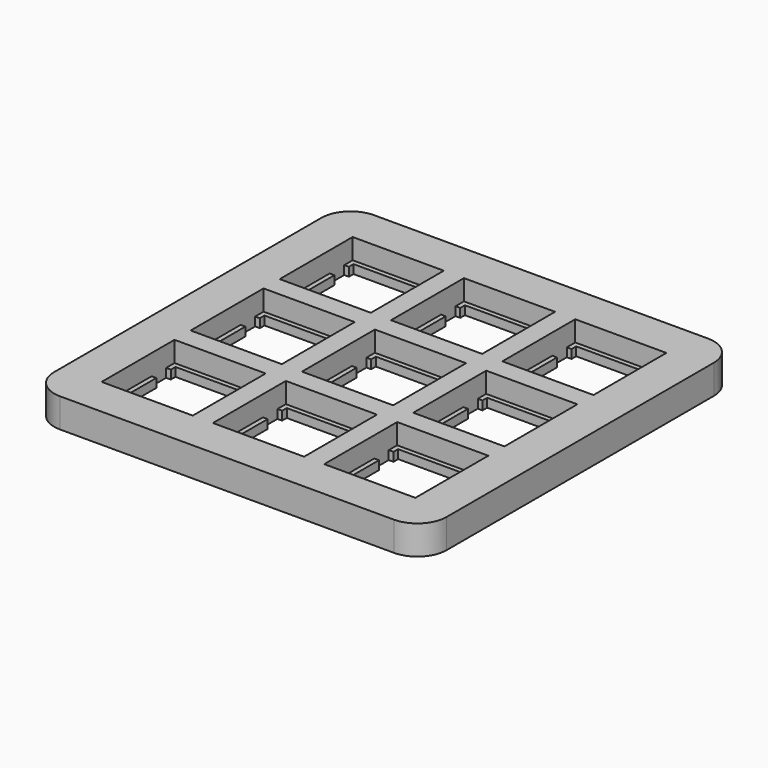
from build123d import *

# Parameters (mm, degrees)
F0_W     = 67.150293
F0_H     = 67.150481
F0_W_2   = 0.80067
F0_H_2   = 5.8004
F0_W_3   = 0.8006
F0_W_4   = 0.8007
F0_W_5   = 0.8008
F0_H_3   = 5.8002
F0_H_4   = 5.8001
F1_DEPTH = 1.5
F2_DEPTH = 5
F3_R     = 5


with BuildPart() as f1:
    # F0 (on Top) → F1 (new body)
    with BuildSketch(Plane.XY):
        with Locations((1e-06, 0)):
            Rectangle(F0_W, F0_H)
        Polygon((-11.249553, -21.950059), (-11.249553, -25.049329), (-11.249553, -26.849741), (-26.850333, -26.849741), (-26.850333, -25.049329), (-26.850333, -21.950059), (-26.850333, -16.149959), (-26.850333, -13.049359), (-26.850333, -11.250141), (-11.249553, -11.250141), (-11.249553, -13.049359), (-11.249553, -16.149959), align=None, mode=Mode.SUBTRACT)
        Polygon((-11.249553, -2.900059), (-11.249553, -5.999359), (-11.249553, -7.799741), (-26.850333, -7.799741), (-26.850333, -5.999359), (-26.850333, -2.900059), (-26.850333, 2.900141), (-26.850333, 6.000741), (-26.850333, 7.799741), (-11.249553, 7.799741), (-11.249553, 6.000741), (-11.249553, 2.900141), align=None, mode=Mode.SUBTRACT)
        Polygon((7.800547, -21.950059), (7.800547, -25.049329), (7.800547, -26.849741), (-7.800353, -26.849741), (-7.800353, -25.049329), (-7.800353, -21.950059), (-7.800353, -16.149959), (-7.800353, -13.049359), (-7.800353, -11.250141), (7.800547, -11.250141), (7.800547, -13.049359), (7.800547, -16.149959), align=None, mode=Mode.SUBTRACT)
        Polygon((26.850547, -21.950059), (26.850547, -25.049329), (26.850547, -26.849741), (11.249647, -26.849741), (11.249647, -25.049329), (11.249647, -21.950059), (11.249647, -16.149959), (11.249647, -13.049359), (11.249647, -11.250141), (26.850547, -11.250141), (26.850547, -13.049359), (26.850547, -16.149959), align=None, mode=Mode.SUBTRACT)
        Polygon((7.800547, -2.900059), (7.800547, -5.999359), (7.800547, -7.799741), (-7.800353, -7.799741), (-7.800353, -5.999359), (-7.800353, -2.900059), (-7.800353, 2.900141), (-7.800353, 6.000741), (-7.800353, 7.799741), (7.800547, 7.799741), (7.800547, 6.000741), (7.800547, 2.900141), align=None, mode=Mode.SUBTRACT)
        Polygon((26.850547, -2.900059), (26.850547, -5.999359), (26.850547, -7.799741), (11.249647, -7.799741), (11.249647, -5.999359), (11.249647, -2.900059), (11.249647, 2.900141), (11.249647, 6.000741), (11.249647, 7.799741), (26.850547, 7.799741), (26.850547, 6.000741), (26.850547, 2.900141), align=None, mode=Mode.SUBTRACT)
        Polygon((-11.249553, 16.149741), (-11.249553, 13.050641), (-11.249553, 11.250141), (-26.850333, 11.250141), (-26.850333, 13.050641), (-26.850333, 16.149741), (-26.850333, 21.950141), (-26.850333, 25.050741), (-26.850333, 26.849741), (-11.249553, 26.849741), (-11.249553, 25.050741), (-11.249553, 21.950141), align=None, mode=Mode.SUBTRACT)
        Polygon((7.800547, 16.149741), (7.800547, 13.050641), (7.800547, 11.250141), (-7.800353, 11.250141), (-7.800353, 13.050641), (-7.800353, 16.149741), (-7.800353, 21.950141), (-7.800353, 25.050741), (-7.800353, 26.849741), (7.800547, 26.849741), (7.800547, 25.050741), (7.800547, 21.950141), align=None, mode=Mode.SUBTRACT)
        Polygon((26.850547, 16.149741), (26.850547, 13.050641), (26.850547, 11.250141), (11.249647, 11.250141), (11.249647, 13.050641), (11.249647, 16.149741), (11.249647, 21.950141), (11.249647, 25.050741), (11.249647, 26.849741), (26.850547, 26.849741), (26.850547, 25.050741), (26.850547, 21.950141), align=None, mode=Mode.SUBTRACT)
        with Locations((-26.449998, 19.049941)):
            Rectangle(F0_W_2, F0_H_2)
        Polygon((-12.050153, 25.050741), (-11.249553, 25.050741), (-11.249553, 26.849741), (-26.850333, 26.849741), (-26.850333, 25.050741), (-26.049663, 25.050741), (-26.049663, 26.049741), (-12.050153, 26.049741), align=None)
        with Locations((-11.649853, 19.049941)):
            Rectangle(F0_W_3, F0_H_2)
        Polygon((-11.249553, 13.050641), (-12.050153, 13.050641), (-12.050153, 12.050141), (-26.049663, 12.050141), (-26.049663, 13.050641), (-26.850333, 13.050641), (-26.850333, 11.250141), (-11.249553, 11.250141), align=None)
        Polygon((7.800547, 13.050641), (6.999747, 13.050641), (6.999747, 12.050141), (-6.999653, 12.050141), (-6.999653, 13.050641), (-7.800353, 13.050641), (-7.800353, 11.250141), (7.800547, 11.250141), align=None)
        with Locations((-7.400003, 19.049941)):
            Rectangle(F0_W_4, F0_H_2)
        Polygon((6.999747, 25.050741), (7.800547, 25.050741), (7.800547, 26.849741), (-7.800353, 26.849741), (-7.800353, 25.050741), (-6.999653, 25.050741), (-6.999653, 26.049741), (6.999747, 26.049741), align=None)
        with Locations((7.400147, 19.049941)):
            Rectangle(F0_W_5, F0_H_2)
        with Locations((11.650047, 19.049941)):
            Rectangle(F0_W_5, F0_H_2)
        Polygon((26.049747, 25.050741), (26.850547, 25.050741), (26.850547, 26.849741), (11.249647, 26.849741), (11.249647, 25.050741), (12.050447, 25.050741), (12.050447, 26.049741), (26.049747, 26.049741), align=None)
        with Locations((26.450147, 19.049941)):
            Rectangle(F0_W_5, F0_H_2)
        Polygon((26.850547, 13.050641), (26.049747, 13.050641), (26.049747, 12.050141), (12.050447, 12.050141), (12.050447, 13.050641), (11.249647, 13.050641), (11.249647, 11.250141), (26.850547, 11.250141), align=None)
        Polygon((26.049747, 6.000741), (26.850547, 6.000741), (26.850547, 7.799741), (11.249647, 7.799741), (11.249647, 6.000741), (12.050447, 6.000741), (12.050447, 6.999741), (26.049747, 6.999741), align=None)
        with Locations((11.650047, 4.1e-05)):
            Rectangle(F0_W_5, F0_H_3)
        with Locations((26.450147, 4.1e-05)):
            Rectangle(F0_W_5, F0_H_3)
        Polygon((26.850547, -5.999359), (26.049747, -5.999359), (26.049747, -6.999759), (12.050447, -6.999759), (12.050447, -5.999359), (11.249647, -5.999359), (11.249647, -7.799741), (26.850547, -7.799741), align=None)
        Polygon((7.800547, -5.999359), (6.999747, -5.999359), (6.999747, -6.999759), (-6.999653, -6.999759), (-6.999653, -5.999359), (-7.800353, -5.999359), (-7.800353, -7.799741), (7.800547, -7.799741), align=None)
        with Locations((7.400147, 4.1e-05)):
            Rectangle(F0_W_5, F0_H_3)
        Polygon((6.999747, 6.000741), (7.800547, 6.000741), (7.800547, 7.799741), (-7.800353, 7.799741), (-7.800353, 6.000741), (-6.999653, 6.000741), (-6.999653, 6.999741), (6.999747, 6.999741), align=None)
        with Locations((-7.400003, 4.1e-05)):
            Rectangle(F0_W_4, F0_H_3)
        with Locations((-11.649853, 4.1e-05)):
            Rectangle(F0_W_3, F0_H_3)
        Polygon((-12.050153, 6.000741), (-11.249553, 6.000741), (-11.249553, 7.799741), (-26.850333, 7.799741), (-26.850333, 6.000741), (-26.049663, 6.000741), (-26.049663, 6.999741), (-12.050153, 6.999741), align=None)
        with Locations((-26.449998, 4.1e-05)):
            Rectangle(F0_W_2, F0_H_3)
        Polygon((-11.249553, -5.999359), (-12.050153, -5.999359), (-12.050153, -6.999759), (-26.049663, -6.999759), (-26.049663, -5.999359), (-26.850333, -5.999359), (-26.850333, -7.799741), (-11.249553, -7.799741), align=None)
        Polygon((-12.050153, -13.049359), (-11.249553, -13.049359), (-11.249553, -11.250141), (-26.850333, -11.250141), (-26.850333, -13.049359), (-26.049663, -13.049359), (-26.049663, -12.050259), (-12.050153, -12.050259), align=None)
        with Locations((-26.449998, -19.050009)):
            Rectangle(F0_W_2, F0_H_4)
        Polygon((-11.249553, -25.049329), (-12.050153, -25.049329), (-12.050153, -26.049769), (-26.049663, -26.049769), (-26.049663, -25.049329), (-26.850333, -25.049329), (-26.850333, -26.849741), (-11.249553, -26.849741), align=None)
        with Locations((-11.649853, -19.050009)):
            Rectangle(F0_W_3, F0_H_4)
        Polygon((6.999747, -13.049359), (7.800547, -13.049359), (7.800547, -11.250141), (-7.800353, -11.250141), (-7.800353, -13.049359), (-6.999653, -13.049359), (-6.999653, -12.050259), (6.999747, -12.050259), align=None)
        with Locations((-7.400003, -19.050009)):
            Rectangle(F0_W_4, F0_H_4)
        Polygon((7.800547, -25.049329), (6.999747, -25.049329), (6.999747, -26.049769), (-6.999653, -26.049769), (-6.999653, -25.049329), (-7.800353, -25.049329), (-7.800353, -26.849741), (7.800547, -26.849741), align=None)
        with Locations((7.400147, -19.050009)):
            Rectangle(F0_W_5, F0_H_4)
        with Locations((11.650047, -19.050009)):
            Rectangle(F0_W_5, F0_H_4)
        Polygon((26.049747, -13.049359), (26.850547, -13.049359), (26.850547, -11.250141), (11.249647, -11.250141), (11.249647, -13.049359), (12.050447, -13.049359), (12.050447, -12.050259), (26.049747, -12.050259), align=None)
        with Locations((26.450147, -19.050009)):
            Rectangle(F0_W_5, F0_H_4)
        Polygon((26.850547, -25.049329), (26.049747, -25.049329), (26.049747, -26.049769), (12.050447, -26.049769), (12.050447, -25.049329), (11.249647, -25.049329), (11.249647, -26.849741), (26.850547, -26.849741), align=None)
    extrude(amount=F1_DEPTH)

    # F0 (on Top) → F2 (join)
    with BuildSketch(Plane.XY):
        with Locations((1e-06, 0)):
            Rectangle(F0_W, F0_H)
        Polygon((-11.249553, -21.950059), (-11.249553, -25.049329), (-11.249553, -26.849741), (-26.850333, -26.849741), (-26.850333, -25.049329), (-26.850333, -21.950059), (-26.850333, -16.149959), (-26.850333, -13.049359), (-26.850333, -11.250141), (-11.249553, -11.250141), (-11.249553, -13.049359), (-11.249553, -16.149959), align=None, mode=Mode.SUBTRACT)
        Polygon((-11.249553, -2.900059), (-11.249553, -5.999359), (-11.249553, -7.799741), (-26.850333, -7.799741), (-26.850333, -5.999359), (-26.850333, -2.900059), (-26.850333, 2.900141), (-26.850333, 6.000741), (-26.850333, 7.799741), (-11.249553, 7.799741), (-11.249553, 6.000741), (-11.249553, 2.900141), align=None, mode=Mode.SUBTRACT)
        Polygon((7.800547, -21.950059), (7.800547, -25.049329), (7.800547, -26.849741), (-7.800353, -26.849741), (-7.800353, -25.049329), (-7.800353, -21.950059), (-7.800353, -16.149959), (-7.800353, -13.049359), (-7.800353, -11.250141), (7.800547, -11.250141), (7.800547, -13.049359), (7.800547, -16.149959), align=None, mode=Mode.SUBTRACT)
        Polygon((26.850547, -21.950059), (26.850547, -25.049329), (26.850547, -26.849741), (11.249647, -26.849741), (11.249647, -25.049329), (11.249647, -21.950059), (11.249647, -16.149959), (11.249647, -13.049359), (11.249647, -11.250141), (26.850547, -11.250141), (26.850547, -13.049359), (26.850547, -16.149959), align=None, mode=Mode.SUBTRACT)
        Polygon((7.800547, -2.900059), (7.800547, -5.999359), (7.800547, -7.799741), (-7.800353, -7.799741), (-7.800353, -5.999359), (-7.800353, -2.900059), (-7.800353, 2.900141), (-7.800353, 6.000741), (-7.800353, 7.799741), (7.800547, 7.799741), (7.800547, 6.000741), (7.800547, 2.900141), align=None, mode=Mode.SUBTRACT)
        Polygon((26.850547, -2.900059), (26.850547, -5.999359), (26.850547, -7.799741), (11.249647, -7.799741), (11.249647, -5.999359), (11.249647, -2.900059), (11.249647, 2.900141), (11.249647, 6.000741), (11.249647, 7.799741), (26.850547, 7.799741), (26.850547, 6.000741), (26.850547, 2.900141), align=None, mode=Mode.SUBTRACT)
        Polygon((-11.249553, 16.149741), (-11.249553, 13.050641), (-11.249553, 11.250141), (-26.850333, 11.250141), (-26.850333, 13.050641), (-26.850333, 16.149741), (-26.850333, 21.950141), (-26.850333, 25.050741), (-26.850333, 26.849741), (-11.249553, 26.849741), (-11.249553, 25.050741), (-11.249553, 21.950141), align=None, mode=Mode.SUBTRACT)
        Polygon((7.800547, 16.149741), (7.800547, 13.050641), (7.800547, 11.250141), (-7.800353, 11.250141), (-7.800353, 13.050641), (-7.800353, 16.149741), (-7.800353, 21.950141), (-7.800353, 25.050741), (-7.800353, 26.849741), (7.800547, 26.849741), (7.800547, 25.050741), (7.800547, 21.950141), align=None, mode=Mode.SUBTRACT)
        Polygon((26.850547, 16.149741), (26.850547, 13.050641), (26.850547, 11.250141), (11.249647, 11.250141), (11.249647, 13.050641), (11.249647, 16.149741), (11.249647, 21.950141), (11.249647, 25.050741), (11.249647, 26.849741), (26.850547, 26.849741), (26.850547, 25.050741), (26.850547, 21.950141), align=None, mode=Mode.SUBTRACT)
    extrude(amount=F2_DEPTH)

    # F3
    f3_edges = [f1.edges().sort_by_distance(p)[0] for p in [
        (33.575147, -33.57524, 2.5),
        (33.575147, 33.575241, 2.5),
        (-33.575146, -33.57524, 2.5),
        (-33.575146, 33.575241, 2.5),
    ]]
    fillet(f3_edges, radius=F3_R)


solid = f1.part
